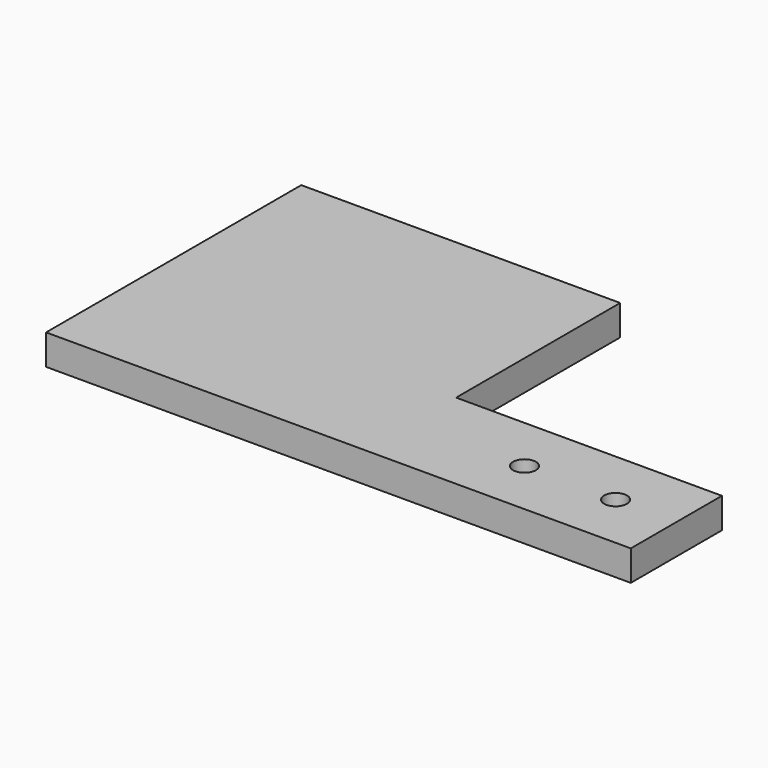
from build123d import *

# Parameters (mm, degrees)
F0_R     = 1.5
F1_DEPTH = 4


with BuildPart() as f1:
    # F0 (on Top) → F1 (new body)
    with BuildSketch(Plane.XY):
        Polygon((21, 21), (-21, 21), (-21, -21), (21, -21), (56, -21), (56, -6), (21, -6), align=None)
        with Locations((36, -13.5)):
            Circle(F0_R, mode=Mode.SUBTRACT)
        with Locations((48, -13.5)):
            Circle(F0_R, mode=Mode.SUBTRACT)
    extrude(amount=F1_DEPTH)


solid = f1.part
